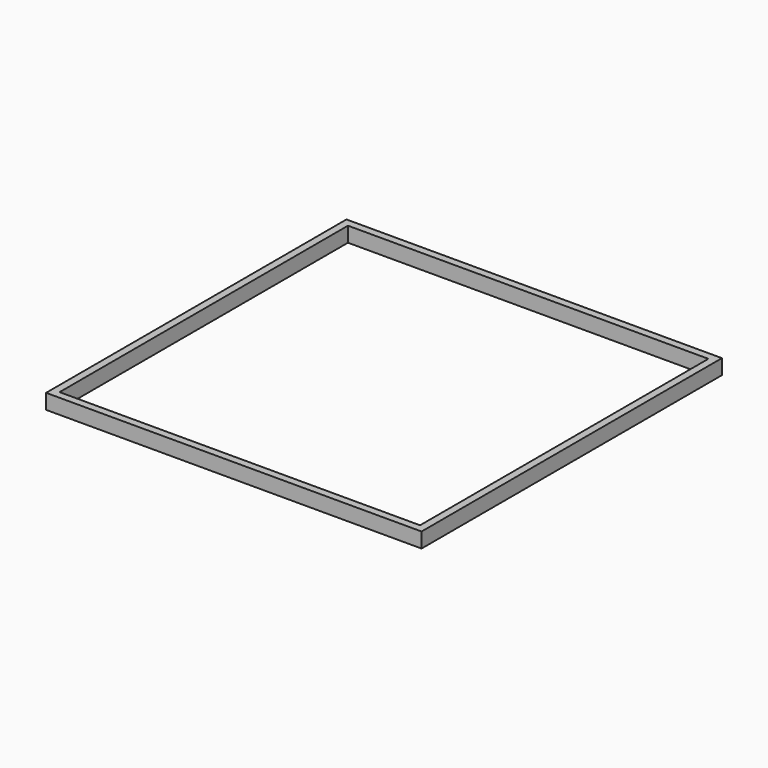
from build123d import *

# Parameters (mm, degrees)
F1_W     = 635
F1_H     = 635
F1_W_2   = 609.6
F1_H_2   = 609.6
F2_DEPTH = 25.4


with BuildPart() as f2:
    # F1 (on face) → F2 (new body)
    with BuildSketch(Plane.XY):
        Rectangle(F1_W, F1_H)
        Rectangle(F1_W_2, F1_H_2, mode=Mode.SUBTRACT)
    extrude(amount=F2_DEPTH)


solid = f2.part
